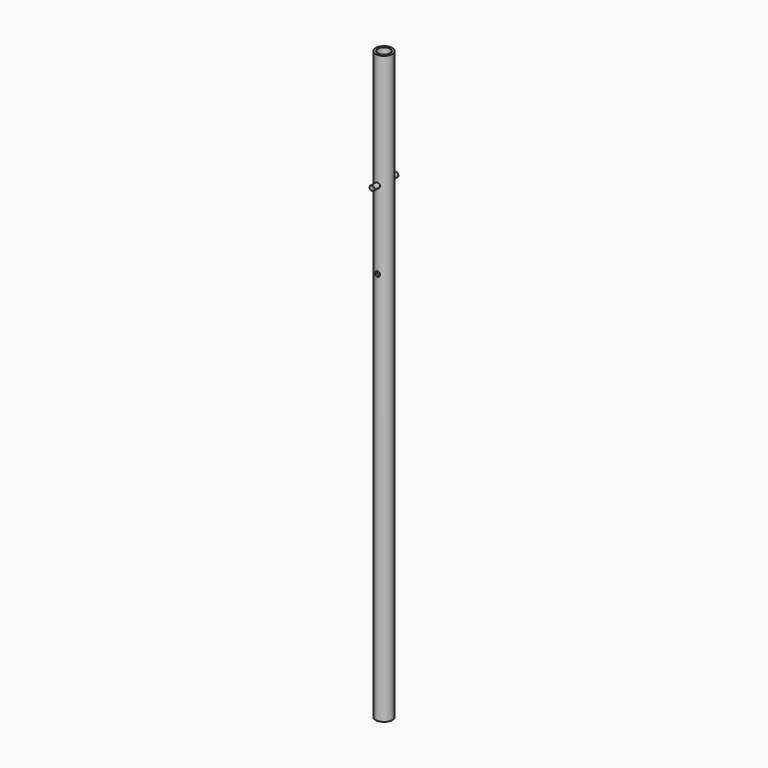
from build123d import *

# Parameters (mm, degrees)
F0_R     = 10.668
F0_R_2   = 7.8994
F1_DEPTH = 750
F2_R     = 3.175
F3_DEPTH = 12.7
F4_DEPTH = 19.05


with BuildPart() as f1:
    # F0 (on Top) → F1 (new body)
    with BuildSketch(Plane.XY):
        Circle(F0_R)
        Circle(F0_R_2, mode=Mode.SUBTRACT)
    extrude(amount=-F1_DEPTH)

    # F2 (on Front) → F3 (cut, symmetric)
    with BuildSketch(Plane.XZ):
        with Locations((0, -146.825)):
            Circle(F2_R)
        with Locations((0, -246.825)):
            Circle(F2_R)
    extrude(amount=F3_DEPTH, both=True, mode=Mode.SUBTRACT)


with BuildPart() as f4:
    # F2 (on Front) → F4 (new body, symmetric)
    with BuildSketch(Plane.XZ):
        with Locations((0, -146.825)):
            Circle(F2_R)
    extrude(amount=F4_DEPTH, both=True)


solid = Compound([f1.part, f4.part])
